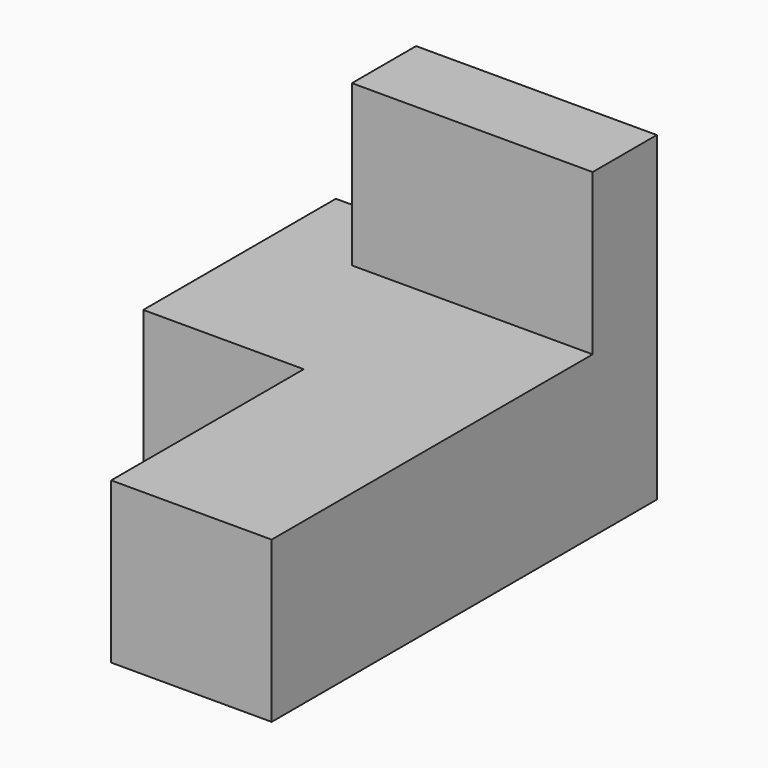
from build123d import *

# Parameters (mm, degrees)
F0_W     = 12.7
F0_H     = 12.7
F1_DEPTH = 38.1
F2_W     = 19.05
F2_H     = 12.7
F3_DEPTH = 12.7
F4_W     = 19.05
F4_H     = 6.35
F5_DEPTH = 12.7


with BuildPart() as f1:
    # F0 (on Front) → F1 (new body)
    with BuildSketch(Plane.XZ):
        with Locations((6.35, 6.35)):
            Rectangle(F0_W, F0_H)
    extrude(amount=F1_DEPTH)

    # F2 (on face) → F3 (join)
    with BuildSketch(Plane(origin=(0, 0, 0), x_dir=(0, -1, 0), z_dir=(-1, 0, 0))):
        with Locations((9.525, 6.35)):
            Rectangle(F2_W, F2_H)
    extrude(amount=F3_DEPTH)

    # F4 (on face) → F5 (join)
    with BuildSketch(Plane.XY.offset(12.7)):
        with Locations((3.175, -3.175)):
            Rectangle(F4_W, F4_H)
    extrude(amount=F5_DEPTH)


solid = f1.part
